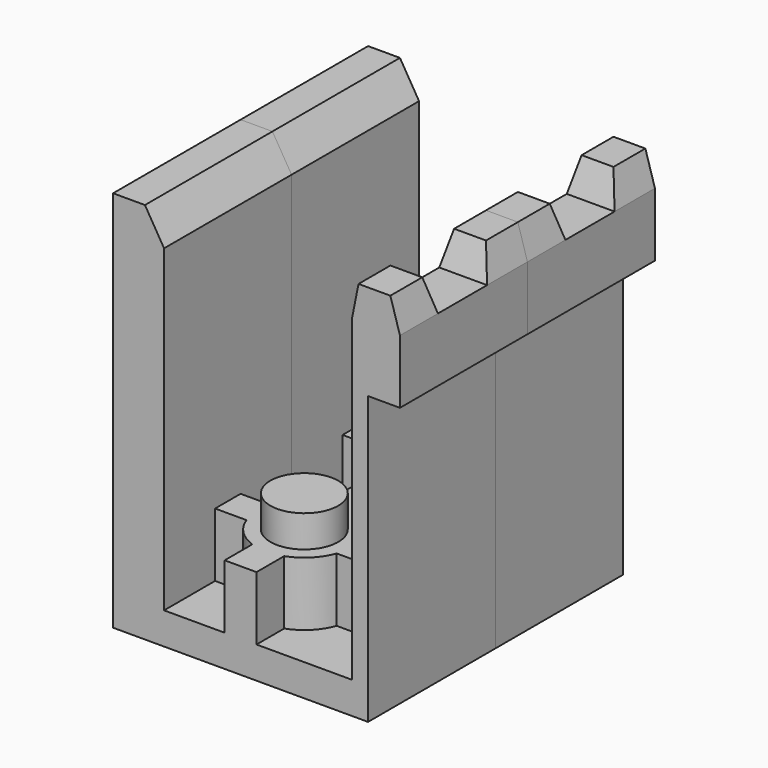
from build123d import *

# Parameters (mm, degrees)
PAD_DEPTH        = 2.5
POCKET_DEPTH     = 2
SKETCH003_W      = 3
SKETCH003_H      = 3
POCKET001_DEPTH  = 0.5
SKETCH004_W      = 5
SKETCH004_H      = 3
POCKET002_DEPTH  = 0.5
SKETCH005_W      = 2
SKETCH005_H      = 1
POCKET003_DEPTH  = 4
PAD002_DEPTH     = 2
SKETCH007_R      = 1.064972
PAD003_DEPTH     = 1
ARRAY001_Y_COUNT = 2
ARRAY001_Y_PITCH = 5


with BuildPart() as array001:
    # Sketch → Pad (new body, symmetric)
    with BuildSketch(Plane.XZ):
        Polygon((-4, 0), (4, 0), (4, 9), (5, 9), (5, 11), (4.7, 12), (3.7, 12), (3.5, 11), (3.5, 1), (-2.4, 1), (-2.4, 11), (-3, 12), (-4, 12), align=None)
    extrude(amount=PAD_DEPTH, both=True)

    # Sketch001 (on Face4 of Pad) → Pocket (cut)
    with BuildSketch(Plane(origin=(5, 0, 0), x_dir=(0, 0, 1), z_dir=(1, 0, 0))):
        Polygon((12, 1.25), (11, 1.010227), (11, -0.917234), (12, -1.25), align=None)
    extrude(amount=-POCKET_DEPTH, mode=Mode.SUBTRACT)

    # Sketch003 (on Face2 of Pocket) → Pocket001 (cut)
    with BuildSketch(Plane(origin=(-4, 0, 0), x_dir=(0, 0, -1), z_dir=(-1, 0, 0))):
        with Locations((-1.5, 0)):
            Rectangle(SKETCH003_W, SKETCH003_H)
    extrude(amount=-POCKET001_DEPTH, mode=Mode.SUBTRACT)

    # Sketch004 (on Face1 of Pocket001) → Pocket002 (cut)
    with BuildSketch(Plane(origin=(0, 0, 0), x_dir=(1, 0, 0), z_dir=(0, 0, -1))):
        with Locations((-1, 0)):
            Rectangle(SKETCH004_W, SKETCH004_H)
    extrude(amount=-POCKET002_DEPTH, mode=Mode.SUBTRACT)

    # Sketch005 (on Face25 of Pocket002) → Pocket003 (cut)
    with BuildSketch(Plane(origin=(-3.5, 0, 0), x_dir=(0, 0, -1), z_dir=(-1, 0, 0))):
        with Locations((-1, 0)):
            Rectangle(SKETCH005_W, SKETCH005_H)
    extrude(amount=-POCKET003_DEPTH, mode=Mode.SUBTRACT)

    # Sketch006 (on Face17 of Pocket003) → Pad002 (new body)
    with BuildSketch(Plane(origin=(0, 0, 1), x_dir=(-1, 0, 0), z_dir=(0, 0, 1))):
        with BuildLine():
            Line((-3.5, 0.5), (-1.414214, 0.5))
            ThreePointArc((-0.5, 1.414214), (-1.06066, 1.06066), (-1.414214, 0.5))
            Line((-0.5, 1.414214), (-0.5, 2.5))
            Line((-0.5, 2.5), (0.5, 2.5))
            Line((0.5, 2.5), (0.5, 1.414214))
            ThreePointArc((1.414214, 0.5), (1.06066, 1.06066), (0.5, 1.414214))
            Line((1.414214, 0.5), (2.4, 0.5))
            Line((2.4, 0.5), (2.4, -0.5))
            Line((2.4, -0.5), (1.414214, -0.5))
            ThreePointArc((0.5, -1.414214), (1.06066, -1.06066), (1.414214, -0.5))
            Line((0.5, -1.414214), (0.5, -2.5))
            Line((0.5, -2.5), (-0.5, -2.5))
            Line((-0.5, -2.5), (-0.5, -1.414214))
            ThreePointArc((-1.414214, -0.5), (-1.06066, -1.06066), (-0.5, -1.414214))
            Line((-1.414214, -0.5), (-3.5, -0.5))
            Line((-3.5, -0.5), (-3.5, 0.5))
        make_face()
    extrude(amount=PAD002_DEPTH)

    # Sketch007 (on Face35 of Pad002) → Pad003 (new body)
    with BuildSketch(Plane(origin=(0, 0, 3), x_dir=(-1, 0, 0), z_dir=(0, 0, 1))):
        Circle(SKETCH007_R)
    extrude(amount=PAD003_DEPTH)


with BuildPart() as array001_copy1:
    # Array001 Y: instance of Array001
    add(array001.part.moved(Location(Vector(0, 1, 0) * (1 * ARRAY001_Y_PITCH))))


solid = Compound([array001.part, array001_copy1.part])
